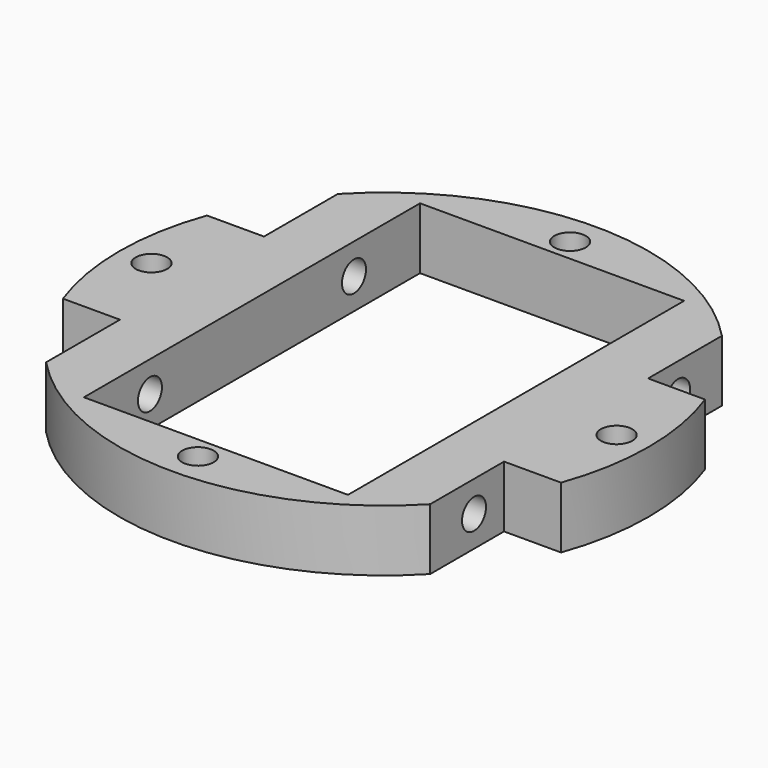
from build123d import *

# Parameters (mm, degrees)
F0_R     = 17.65
F0_R_2   = 1.05
F0_W     = 17.6
F0_H     = 28
F1_DEPTH = 4.1
F2_W     = 8.4405994534
F2_H     = 9.594688829
F2_W_2   = 9.8450831422
F2_H_2   = 12.0924381804
F2_W_3   = 11.2190096889
F2_H_3   = 12.7369980328
F2_W_4   = 11.1257450883
F3_DEPTH = 4.101
F4_R     = 1
F5_DEPTH = 30.451


with BuildPart() as f1:
    # F0 (on Top) → F1 (new body)
    with BuildSketch(Plane.XY):
        Circle(F0_R)
        with Locations((0, -15.5)):
            Circle(F0_R_2, mode=Mode.SUBTRACT)
        with Locations((-15.5, 0)):
            Circle(F0_R_2, mode=Mode.SUBTRACT)
        Rectangle(F0_W, F0_H, mode=Mode.SUBTRACT)
        with Locations((15.5, 0)):
            Circle(F0_R_2, mode=Mode.SUBTRACT)
        with Locations((0, 15.5)):
            Circle(F0_R_2, mode=Mode.SUBTRACT)
    extrude(amount=F1_DEPTH)

    # F2 (on face) → F3 (cut, through all)
    with BuildSketch(Plane.XY.offset(4.1)):
        with Locations((-17.0202997267, 10.7973444145)):
            Rectangle(F2_W, F2_H)
        with Locations((17.7225415711, 12.0462190902)):
            Rectangle(F2_W_2, F2_H_2)
        with Locations((18.4095048444, -12.3684990164)):
            Rectangle(F2_W_3, F2_H_3)
        with Locations((-18.3628725441, -12.3684990164)):
            Rectangle(F2_W_4, F2_H_3)
    extrude(amount=-F3_DEPTH, mode=Mode.SUBTRACT)

    # F4 (on face) → F5 (cut, through all)
    with BuildSketch(Plane(origin=(-12.8, 0, 0), x_dir=(0, -1, 0), z_dir=(-1, 0, 0))):
        with Locations((-8.5, 2.05)):
            Circle(F4_R)
        with Locations((8.5, 2.05)):
            Circle(F4_R)
    extrude(amount=-F5_DEPTH, mode=Mode.SUBTRACT)


solid = f1.part
